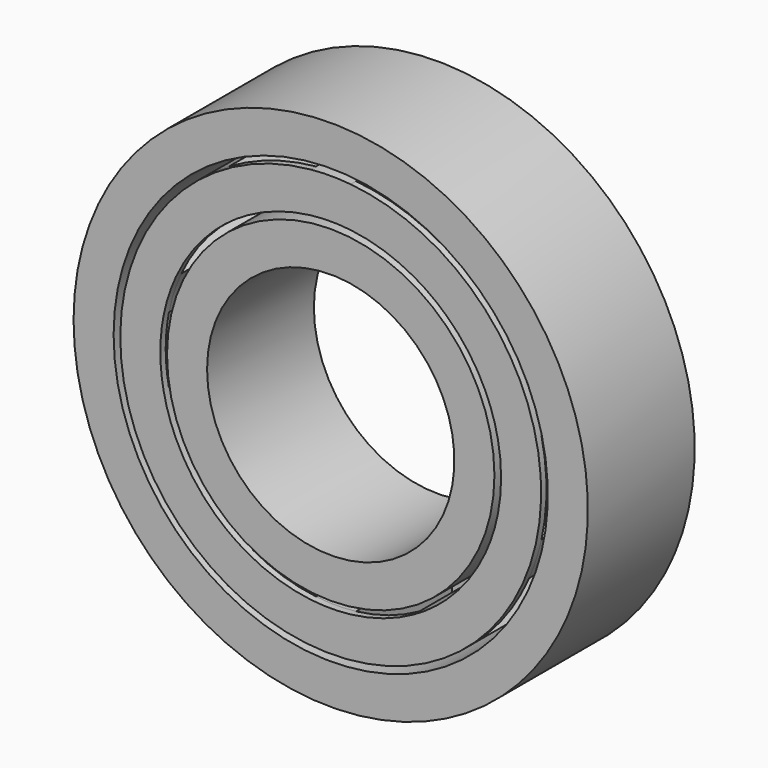
from build123d import *

# Parameters (mm, degrees)
F0_W     = 7.62
F0_H     = 1.27
F3_DEPTH = 25.4
F4_COUNT = 10
F0_H_2   = 25.4


with BuildPart() as f1:
    # F0 (on Top) → F1 (revolve)
    with BuildSketch(Plane.XY):
        with Locations((-36.225725, 16.45785)):
            Rectangle(F0_W, F0_H)
        with Locations((-36.225725, -7.67215)):
            Rectangle(F0_W, F0_H)
    revolve(axis=Axis((0, 8.546425, 0), (0, -1, 0)))

    # F2 (on face) → F3 (join)
    with BuildSketch(Plane.XZ.offset(8.30715)):
        with BuildLine():
            ThreePointArc((3.811419, 39.853888), (0.001425, 40.035725), (-3.808581, 39.854159))
            Line((-3.808581, 39.854159), (-3.808581, 32.191209))
            ThreePointArc((-3.808581, 32.191209), (0.001429, 32.415725), (3.811419, 32.190873))
            Line((3.811419, 32.190873), (3.811419, 39.853888))
        make_face()
    extrude(amount=-F3_DEPTH)

    # F4: F1 ×10 about axis
    f4_axis = Axis((0, 8.546425, 0), (0, -1, 0))


with BuildPart() as f1_1:
    add(f1.part)
    for i in range(1, F4_COUNT):
        add(f1.part.rotate(f4_axis, i * 360 / F4_COUNT))


with BuildPart() as f5:
    # F0 (on Top) → F5 (revolve)
    with BuildSketch(Plane.XY):
        with Locations((-45.115725, 4.39285)):
            Rectangle(F0_W, F0_H_2)
        with Locations((-27.335725, 4.39285)):
            Rectangle(F0_W, F0_H_2)
    revolve(axis=Axis((0, 8.546425, 0), (0, -1, 0)))


solid = Compound([f1_1.part, f5.part])
